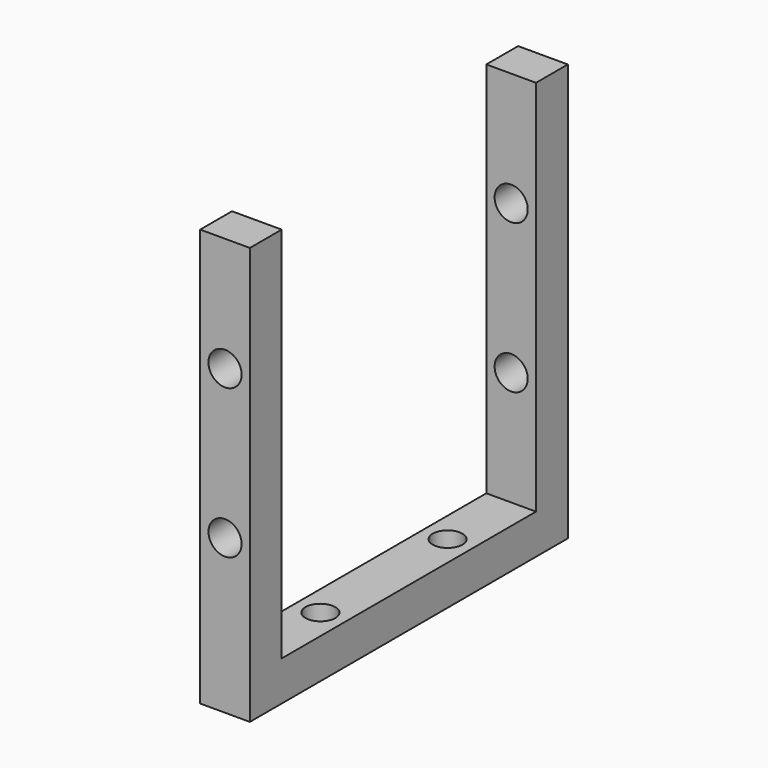
from build123d import *

# Parameters (mm, degrees)
F1_DEPTH = 5
F2_R     = 1.669174
F2_R_2   = 1.66634
F3_DEPTH = 40.001
F4_R     = 1.5
F5_DEPTH = 4.001


with BuildPart() as f1:
    # F0 (on Right) → F1 (new body)
    with BuildSketch(Plane.YZ):
        Polygon((16, -8.883437), (0, -8.883437), (-16, -8.883437), (-16, 29.116563), (-20, 29.116563), (-20, -12.883437), (0, -12.883437), (20, -12.883437), (20, 29.116563), (16, 29.116563), align=None)
    extrude(amount=F1_DEPTH)

    # F2 (on face) → F3 (cut, through all)
    with BuildSketch(Plane.XZ.offset(20)):
        with Locations((2.5, 17.616563)):
            Circle(F2_R)
        with Locations((2.5, 2.616563)):
            Circle(F2_R_2)
    extrude(amount=-F3_DEPTH, mode=Mode.SUBTRACT)

    # F4 (on face) → F5 (cut, through all)
    with BuildSketch(Plane.XY.offset(-8.883437)):
        with Locations((2.5, -8)):
            Circle(F4_R)
        with Locations((2.5, 8)):
            Circle(F4_R)
    extrude(amount=-F5_DEPTH, mode=Mode.SUBTRACT)


solid = f1.part
